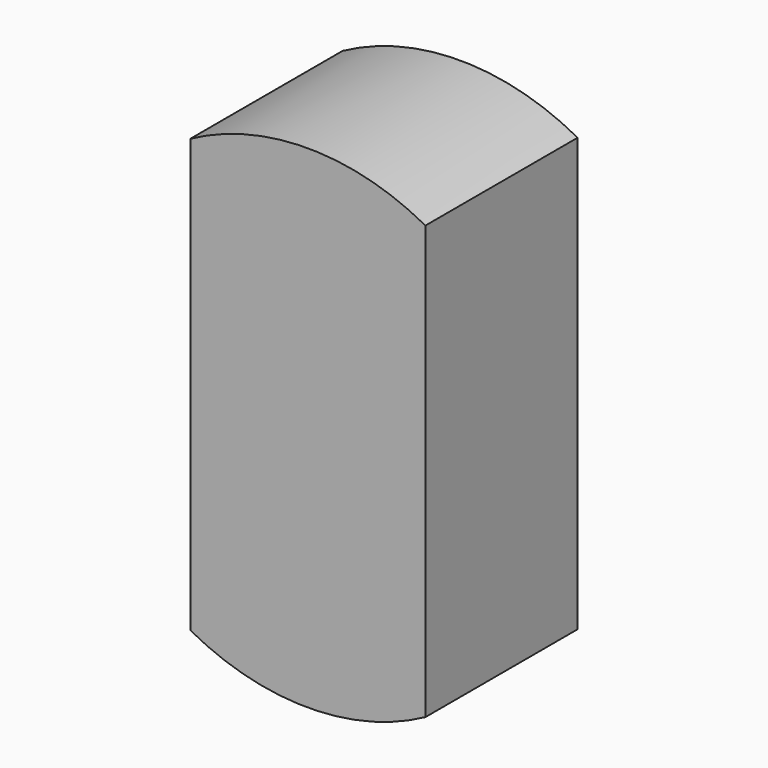
from build123d import *

# Parameters (mm, degrees)
F1_DEPTH = 15
F2_W     = 21
F2_H     = 38.66523
F3_DEPTH = 2


with BuildPart() as f1:
    # F0 (on Front) → F1 (new body)
    with BuildSketch(Plane.XZ):
        with BuildLine():
            Line((-10.5, 19.332615), (-10.5, -19.332615))
            ThreePointArc((-10.5, -19.332615), (0, -22), (10.5, -19.332615))
            Line((10.5, -19.332615), (10.5, 19.332615))
            ThreePointArc((10.5, 19.332615), (0, 22), (-10.5, 19.332615))
        make_face()
        with BuildLine():
            ThreePointArc((-5.500001, 16.085709), (0, 17.000001), (5.500001, 16.085709))
            Line((5.500001, 16.085709), (5.500001, -16.085709))
            ThreePointArc((5.500001, -16.085709), (0, -17.000001), (-5.500001, -16.085709))
            Line((-5.500001, -16.085709), (-5.500001, 16.085709))
        make_face(mode=Mode.SUBTRACT)
    extrude(amount=F1_DEPTH)

    # F2 (on face) → F3 (join)
    with BuildSketch(Plane.XZ.offset(15)):
        with BuildLine():
            ThreePointArc((10.5, 19.332615), (0, 22), (-10.5, 19.332615))
            Line((-10.5, 19.332615), (10.5, 19.332615))
        make_face()
        Rectangle(F2_W, F2_H)
        with BuildLine():
            Line((10.5, -19.332615), (-10.5, -19.332615))
            ThreePointArc((-10.5, -19.332615), (0, -22), (10.5, -19.332615))
        make_face()
    extrude(amount=F3_DEPTH)


solid = f1.part
